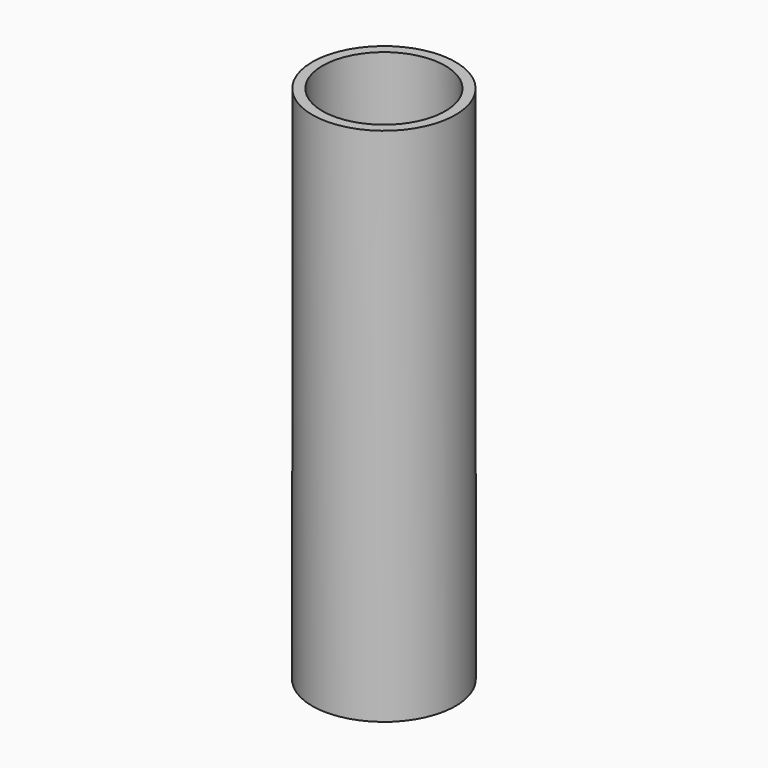
from build123d import *

# Parameters (mm, degrees)
F2_R     = 3.5
F3_DEPTH = 125


with BuildPart() as f1:
    # F0 (on Front) → F1 (revolve)
    with BuildSketch(Plane.XZ):
        with BuildLine():
            Line((-15, 2), (-15, 4.663582))
            ThreePointArc((-15, 4.663582), (-14.440729, 6.050773), (-13.0757, 6.662149))
            ThreePointArc((-13.0757, 6.662149), (-11.693157, 7.053709), (-10.463671, 7.797423))
            Line((-10.463671, 7.797423), (-5.140946, 15.991566))
            ThreePointArc((-5.140946, 15.991566), (-4.454382, 16.704445), (-3.5, 16.966593))
            Line((-3.5, 16.966593), (0, 16.966593))
            Line((0, 16.966593), (0, 19.871736))
            Line((0, 19.871736), (-3.5, 19.871736))
            Line((-3.5, 19.871736), (-4.516794, 19.871736))
            Line((-4.516794, 19.871736), (-11.341988, 9.754197))
            ThreePointArc((-11.341988, 9.754197), (-13.584797, 8.960082), (-15, 10.872675))
            Line((-15, 10.872675), (-15, 22.663582))
            ThreePointArc((-15, 22.663582), (-14.440729, 24.050773), (-13.0757, 24.662149))
            ThreePointArc((-13.0757, 24.662149), (-11.693157, 25.053709), (-10.463671, 25.797423))
            Line((-10.463671, 25.797423), (-5.140946, 33.991566))
            ThreePointArc((-5.140946, 33.991566), (-4.454382, 34.704445), (-3.5, 34.966593))
            Line((-3.5, 34.966593), (0, 34.966593))
            Line((0, 34.966593), (0, 37.871736))
            Line((0, 37.871736), (-3.5, 37.871736))
            Line((-3.5, 37.871736), (-4.516794, 37.871736))
            Line((-4.516794, 37.871736), (-11.341988, 27.754197))
            ThreePointArc((-11.341988, 27.754197), (-13.584797, 26.960082), (-15, 28.872675))
            Line((-15, 28.872675), (-15, 40.663582))
            ThreePointArc((-15, 40.663582), (-14.440729, 42.050773), (-13.0757, 42.662149))
            ThreePointArc((-13.0757, 42.662149), (-11.693157, 43.053709), (-10.463671, 43.797423))
            Line((-10.463671, 43.797423), (-5.140946, 51.991566))
            ThreePointArc((-5.140946, 51.991566), (-4.454382, 52.704445), (-3.5, 52.966593))
            Line((-3.5, 52.966593), (0, 52.966593))
            Line((0, 52.966593), (0, 55.871736))
            Line((0, 55.871736), (-3.5, 55.871736))
            Line((-3.5, 55.871736), (-4.516794, 55.871736))
            Line((-4.516794, 55.871736), (-11.341988, 45.754197))
            ThreePointArc((-11.341988, 45.754197), (-13.584797, 44.960082), (-15, 46.872675))
            Line((-15, 46.872675), (-15, 58.663582))
            ThreePointArc((-15, 58.663582), (-14.440729, 60.050773), (-13.0757, 60.662149))
            ThreePointArc((-13.0757, 60.662149), (-11.693157, 61.053709), (-10.463671, 61.797423))
            Line((-10.463671, 61.797423), (-5.140946, 69.991566))
            ThreePointArc((-5.140946, 69.991566), (-4.454382, 70.704445), (-3.5, 70.966593))
            Line((-3.5, 70.966593), (0, 70.966593))
            Line((0, 70.966593), (0, 73.871736))
            Line((0, 73.871736), (-3.5, 73.871736))
            Line((-3.5, 73.871736), (-4.516794, 73.871736))
            Line((-4.516794, 73.871736), (-11.341988, 63.754197))
            ThreePointArc((-11.341988, 63.754197), (-13.584797, 62.960082), (-15, 64.872675))
            Line((-15, 64.872675), (-15, 76.663582))
            ThreePointArc((-15, 76.663582), (-14.440729, 78.050773), (-13.0757, 78.662149))
            ThreePointArc((-13.0757, 78.662149), (-11.693157, 79.053709), (-10.463671, 79.797423))
            Line((-10.463671, 79.797423), (-5.140946, 87.991566))
            ThreePointArc((-5.140946, 87.991566), (-4.454382, 88.704445), (-3.5, 88.966593))
            Line((-3.5, 88.966593), (0, 88.966593))
            Line((0, 88.966593), (0, 91.871736))
            Line((0, 91.871736), (-3.5, 91.871736))
            Line((-3.5, 91.871736), (-4.516794, 91.871736))
            Line((-4.516794, 91.871736), (-11.341988, 81.754197))
            ThreePointArc((-11.341988, 81.754197), (-13.584797, 80.960082), (-15, 82.872675))
            Line((-15, 82.872675), (-15, 97.069614))
            ThreePointArc((-15, 97.069614), (-13.828427, 99.898041), (-11, 101.069614))
            Line((-11, 101.069614), (-11, 101.615095))
            ThreePointArc((-11, 101.615095), (-13.828427, 102.786668), (-15, 105.615095))
            Line((-15, 105.615095), (-15, 125))
            Line((-15, 125), (-17.5, 125))
            Line((-17.5, 125), (-17.522877, -2.102512))
            Line((-17.522877, -2.102512), (0, -2.102512))
            Line((0, -2.102512), (0, 0))
            Line((0, 0), (-13, 0))
            ThreePointArc((-13, 0), (-14.414214, 0.585786), (-15, 2))
        make_face()
    revolve(axis=Axis((0, 0, 62.5), (0, 0, 1)))

    # F2 (on face) → F3 (cut)
    with BuildSketch(Plane(origin=(0, 0, -2.102512), x_dir=(1, 0, 0), z_dir=(0, 0, -1))):
        Circle(F2_R)
    extrude(amount=-F3_DEPTH, mode=Mode.SUBTRACT)


solid = f1.part
